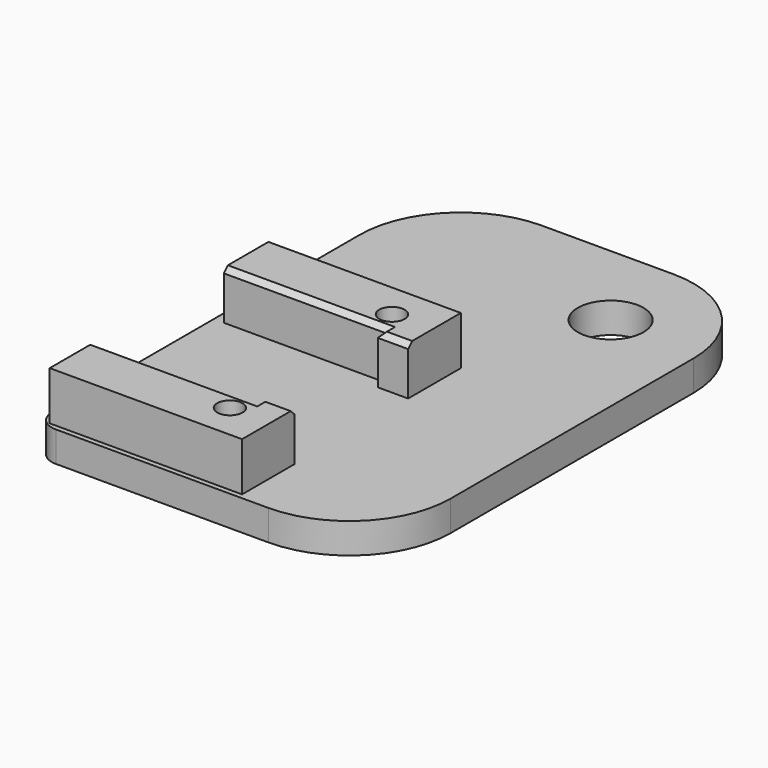
from build123d import *

# Parameters (mm, degrees)
SKETCH_W     = 33
SKETCH_H     = 50
SKETCH_R     = 3.25
PAD_DEPTH    = 3
FILLET_R     = 2
FILLET001_R  = 10
PAD001_DEPTH = 4.8
SKETCH002_R  = 1.25
POCKET_DEPTH = 8.001
CHAMFER_SIZE = 0.5


with BuildPart() as part:
    # Sketch → Pad (new body)
    with BuildSketch(Plane.XY):
        with Locations((16.5, 25)):
            Rectangle(SKETCH_W, SKETCH_H)
        with Locations((24, 41)):
            Circle(SKETCH_R, mode=Mode.SUBTRACT)
    extrude(amount=PAD_DEPTH)

    # Fillet
    fillet_edges = [part.edges().sort_by_distance(p)[0] for p in [
        (0, 0, 1.5),
    ]]
    fillet(fillet_edges, radius=FILLET_R)

    # Fillet001
    fillet001_edges = [part.edges().sort_by_distance(p)[0] for p in [
        (33, 0, 1.5),
        (0, 50, 1.5),
        (33, 50, 1.5),
    ]]
    fillet(fillet001_edges, radius=FILLET001_R)

    # Sketch001 → Pad001 (join)
    with BuildSketch(Plane.XY.offset(3)):
        Polygon((20, 22), (20, 27.5), (1, 27.5), (1, 22), (17, 22), (17, 21), (20, 21), align=None)
        Polygon((1, 0.5), (1, 6), (17, 6), (17, 7), (20, 7), (20, 6), (20, 0.5), align=None)
    extrude(amount=PAD001_DEPTH)

    # Sketch002 → Pocket (cut, through all)
    with BuildSketch(Plane.XY.offset(8)):
        with Locations((16, 24)):
            Circle(SKETCH002_R)
        with Locations((16, 4)):
            Circle(SKETCH002_R)
    extrude(amount=-POCKET_DEPTH, mode=Mode.SUBTRACT)

    # Chamfer
    chamfer_edges = [part.edges().sort_by_distance(p)[0] for p in [
        (9, 22, 7.8),
        (9, 6, 7.8),
        (17, 21.5, 7.8),
        (17, 6.5, 7.8),
        (18.5, 7, 7.8),
        (18.5, 21, 7.8),
    ]]
    chamfer(chamfer_edges, length=CHAMFER_SIZE)


solid = part.part
